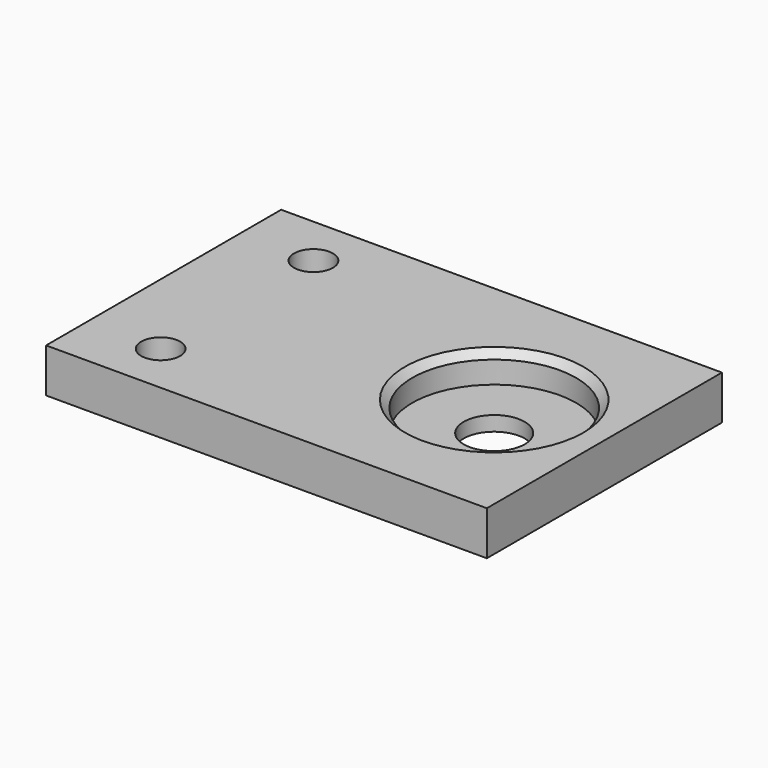
from build123d import *

# Parameters (mm, degrees)
F0_W     = 40
F0_H     = 40
F0_R     = 11.15
F0_W_2   = 20
F0_R_2   = 2.65
F1_DEPTH = 6
F0_R_3   = 4.151826
F2_DEPTH = 2
F3_SIZE  = 1


with BuildPart() as f1:
    # F0 (on Top) → F1 (new body)
    with BuildSketch(Plane.XY):
        with Locations((-51.926523, 22.418201)):
            Rectangle(F0_W, F0_H)
        with Locations((-46.926523, 22.418201)):
            Circle(F0_R, mode=Mode.SUBTRACT)
        with Locations((-81.926523, 22.418201)):
            Rectangle(F0_W_2, F0_H)
        with Locations((-81.926523, 9.418201)):
            Circle(F0_R_2, mode=Mode.SUBTRACT)
        with Locations((-81.926523, 35.418201)):
            Circle(F0_R_2, mode=Mode.SUBTRACT)
    extrude(amount=F1_DEPTH)

    # F0 (on Top) → F2 (join)
    with BuildSketch(Plane.XY):
        with Locations((-46.926523, 22.418201)):
            Circle(F0_R)
        with Locations((-46.926523, 22.418201)):
            Circle(F0_R_3, mode=Mode.SUBTRACT)
    extrude(amount=F2_DEPTH)

    # F3
    f3_edges = [f1.edges().sort_by_distance(p)[0] for p in [
        (-58.076523, 22.418201, 6),
    ]]
    chamfer(f3_edges, length=F3_SIZE)


solid = f1.part
